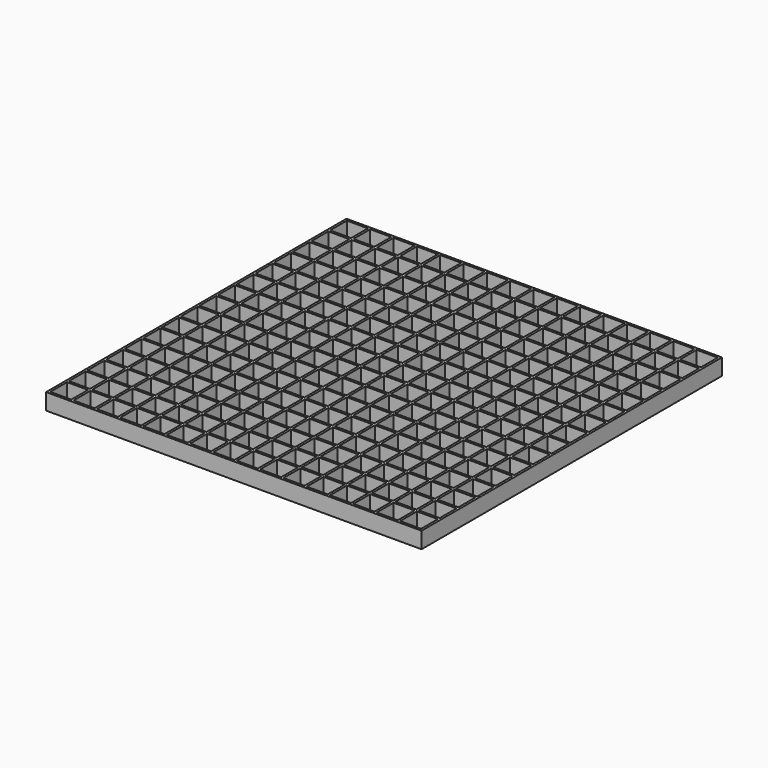
from build123d import *

# Parameters (mm, degrees)
SKETCH_W                      = 161
SKETCH_H                      = 161
PAD_DEPTH                     = 7
SKETCH001_W                   = 9
SKETCH001_H                   = 9
POCKET_DEPTH                  = 7
SKETCH001_LINEARPATTERN_2_W   = 9
SKETCH001_LINEARPATTERN_2_H   = 9
POCKET_LINEARPATTERN_2_DEPTH  = 7
SKETCH001_LINEARPATTERN_3_W   = 9
SKETCH001_LINEARPATTERN_3_H   = 9
POCKET_LINEARPATTERN_3_DEPTH  = 7
SKETCH001_LINEARPATTERN_4_W   = 9
SKETCH001_LINEARPATTERN_4_H   = 9
POCKET_LINEARPATTERN_4_DEPTH  = 7
SKETCH001_LINEARPATTERN_5_W   = 9
SKETCH001_LINEARPATTERN_5_H   = 9
POCKET_LINEARPATTERN_5_DEPTH  = 7
SKETCH001_LINEARPATTERN_6_W   = 9
SKETCH001_LINEARPATTERN_6_H   = 9
POCKET_LINEARPATTERN_6_DEPTH  = 7
SKETCH001_LINEARPATTERN_7_W   = 9
SKETCH001_LINEARPATTERN_7_H   = 9
POCKET_LINEARPATTERN_7_DEPTH  = 7
SKETCH001_LINEARPATTERN_8_W   = 9
SKETCH001_LINEARPATTERN_8_H   = 9
POCKET_LINEARPATTERN_8_DEPTH  = 7
SKETCH001_LINEARPATTERN_9_W   = 9
SKETCH001_LINEARPATTERN_9_H   = 9
POCKET_LINEARPATTERN_9_DEPTH  = 7
SKETCH001_LINEARPATTERN_10_W  = 9
SKETCH001_LINEARPATTERN_10_H  = 9
POCKET_LINEARPATTERN_10_DEPTH = 7
SKETCH001_LINEARPATTERN_11_W  = 9
SKETCH001_LINEARPATTERN_11_H  = 9
POCKET_LINEARPATTERN_11_DEPTH = 7
SKETCH001_LINEARPATTERN_12_W  = 9
SKETCH001_LINEARPATTERN_12_H  = 9
POCKET_LINEARPATTERN_12_DEPTH = 7
SKETCH001_LINEARPATTERN_13_W  = 9
SKETCH001_LINEARPATTERN_13_H  = 9
POCKET_LINEARPATTERN_13_DEPTH = 7
SKETCH001_LINEARPATTERN_14_W  = 9
SKETCH001_LINEARPATTERN_14_H  = 9
POCKET_LINEARPATTERN_14_DEPTH = 7
SKETCH001_LINEARPATTERN_15_W  = 9
SKETCH001_LINEARPATTERN_15_H  = 9
POCKET_LINEARPATTERN_15_DEPTH = 7
SKETCH001_LINEARPATTERN_16_W  = 9
SKETCH001_LINEARPATTERN_16_H  = 9
POCKET_LINEARPATTERN_16_DEPTH = 7
LINEARPATTERN001_COUNT        = 16
LINEARPATTERN001_PITCH        = 10


with BuildPart() as part:
    # Sketch → Pad (new body)
    with BuildSketch(Plane.XY):
        with Locations((80.5, 80.5)):
            Rectangle(SKETCH_W, SKETCH_H)
    extrude(amount=PAD_DEPTH)

    # Sketch001 (on Face6 of Pad) → Pocket (cut)
    with BuildSketch(Plane.XY.offset(7)):
        with Locations((5.5, 5.5)):
            Rectangle(SKETCH001_W, SKETCH001_H)
    pocket = extrude(amount=-POCKET_DEPTH, mode=Mode.SUBTRACT)

    # Sketch001 LinearPattern 2 → Pocket LinearPattern 2 (cut)
    with BuildSketch(Plane(origin=(10, 0, 7), x_dir=(1, 0, 0), z_dir=(0, 0, 1))):
        with Locations((5.5, 5.5)):
            Rectangle(SKETCH001_LINEARPATTERN_2_W, SKETCH001_LINEARPATTERN_2_H)
    pocket_linearpattern_2 = extrude(amount=-POCKET_LINEARPATTERN_2_DEPTH, mode=Mode.SUBTRACT)

    # Sketch001 LinearPattern 3 → Pocket LinearPattern 3 (cut)
    with BuildSketch(Plane(origin=(20, 0, 7), x_dir=(1, 0, 0), z_dir=(0, 0, 1))):
        with Locations((5.5, 5.5)):
            Rectangle(SKETCH001_LINEARPATTERN_3_W, SKETCH001_LINEARPATTERN_3_H)
    pocket_linearpattern_3 = extrude(amount=-POCKET_LINEARPATTERN_3_DEPTH, mode=Mode.SUBTRACT)

    # Sketch001 LinearPattern 4 → Pocket LinearPattern 4 (cut)
    with BuildSketch(Plane(origin=(30, 0, 7), x_dir=(1, 0, 0), z_dir=(0, 0, 1))):
        with Locations((5.5, 5.5)):
            Rectangle(SKETCH001_LINEARPATTERN_4_W, SKETCH001_LINEARPATTERN_4_H)
    pocket_linearpattern_4 = extrude(amount=-POCKET_LINEARPATTERN_4_DEPTH, mode=Mode.SUBTRACT)

    # Sketch001 LinearPattern 5 → Pocket LinearPattern 5 (cut)
    with BuildSketch(Plane(origin=(40, 0, 7), x_dir=(1, 0, 0), z_dir=(0, 0, 1))):
        with Locations((5.5, 5.5)):
            Rectangle(SKETCH001_LINEARPATTERN_5_W, SKETCH001_LINEARPATTERN_5_H)
    pocket_linearpattern_5 = extrude(amount=-POCKET_LINEARPATTERN_5_DEPTH, mode=Mode.SUBTRACT)

    # Sketch001 LinearPattern 6 → Pocket LinearPattern 6 (cut)
    with BuildSketch(Plane(origin=(50, 0, 7), x_dir=(1, 0, 0), z_dir=(0, 0, 1))):
        with Locations((5.5, 5.5)):
            Rectangle(SKETCH001_LINEARPATTERN_6_W, SKETCH001_LINEARPATTERN_6_H)
    pocket_linearpattern_6 = extrude(amount=-POCKET_LINEARPATTERN_6_DEPTH, mode=Mode.SUBTRACT)

    # Sketch001 LinearPattern 7 → Pocket LinearPattern 7 (cut)
    with BuildSketch(Plane(origin=(60, 0, 7), x_dir=(1, 0, 0), z_dir=(0, 0, 1))):
        with Locations((5.5, 5.5)):
            Rectangle(SKETCH001_LINEARPATTERN_7_W, SKETCH001_LINEARPATTERN_7_H)
    pocket_linearpattern_7 = extrude(amount=-POCKET_LINEARPATTERN_7_DEPTH, mode=Mode.SUBTRACT)

    # Sketch001 LinearPattern 8 → Pocket LinearPattern 8 (cut)
    with BuildSketch(Plane(origin=(70, 0, 7), x_dir=(1, 0, 0), z_dir=(0, 0, 1))):
        with Locations((5.5, 5.5)):
            Rectangle(SKETCH001_LINEARPATTERN_8_W, SKETCH001_LINEARPATTERN_8_H)
    pocket_linearpattern_8 = extrude(amount=-POCKET_LINEARPATTERN_8_DEPTH, mode=Mode.SUBTRACT)

    # Sketch001 LinearPattern 9 → Pocket LinearPattern 9 (cut)
    with BuildSketch(Plane(origin=(80, 0, 7), x_dir=(1, 0, 0), z_dir=(0, 0, 1))):
        with Locations((5.5, 5.5)):
            Rectangle(SKETCH001_LINEARPATTERN_9_W, SKETCH001_LINEARPATTERN_9_H)
    pocket_linearpattern_9 = extrude(amount=-POCKET_LINEARPATTERN_9_DEPTH, mode=Mode.SUBTRACT)

    # Sketch001 LinearPattern 10 → Pocket LinearPattern 10 (cut)
    with BuildSketch(Plane(origin=(90, 0, 7), x_dir=(1, 0, 0), z_dir=(0, 0, 1))):
        with Locations((5.5, 5.5)):
            Rectangle(SKETCH001_LINEARPATTERN_10_W, SKETCH001_LINEARPATTERN_10_H)
    pocket_linearpattern_10 = extrude(amount=-POCKET_LINEARPATTERN_10_DEPTH, mode=Mode.SUBTRACT)

    # Sketch001 LinearPattern 11 → Pocket LinearPattern 11 (cut)
    with BuildSketch(Plane(origin=(100, 0, 7), x_dir=(1, 0, 0), z_dir=(0, 0, 1))):
        with Locations((5.5, 5.5)):
            Rectangle(SKETCH001_LINEARPATTERN_11_W, SKETCH001_LINEARPATTERN_11_H)
    pocket_linearpattern_11 = extrude(amount=-POCKET_LINEARPATTERN_11_DEPTH, mode=Mode.SUBTRACT)

    # Sketch001 LinearPattern 12 → Pocket LinearPattern 12 (cut)
    with BuildSketch(Plane(origin=(110, 0, 7), x_dir=(1, 0, 0), z_dir=(0, 0, 1))):
        with Locations((5.5, 5.5)):
            Rectangle(SKETCH001_LINEARPATTERN_12_W, SKETCH001_LINEARPATTERN_12_H)
    pocket_linearpattern_12 = extrude(amount=-POCKET_LINEARPATTERN_12_DEPTH, mode=Mode.SUBTRACT)

    # Sketch001 LinearPattern 13 → Pocket LinearPattern 13 (cut)
    with BuildSketch(Plane(origin=(120, 0, 7), x_dir=(1, 0, 0), z_dir=(0, 0, 1))):
        with Locations((5.5, 5.5)):
            Rectangle(SKETCH001_LINEARPATTERN_13_W, SKETCH001_LINEARPATTERN_13_H)
    pocket_linearpattern_13 = extrude(amount=-POCKET_LINEARPATTERN_13_DEPTH, mode=Mode.SUBTRACT)

    # Sketch001 LinearPattern 14 → Pocket LinearPattern 14 (cut)
    with BuildSketch(Plane(origin=(130, 0, 7), x_dir=(1, 0, 0), z_dir=(0, 0, 1))):
        with Locations((5.5, 5.5)):
            Rectangle(SKETCH001_LINEARPATTERN_14_W, SKETCH001_LINEARPATTERN_14_H)
    pocket_linearpattern_14 = extrude(amount=-POCKET_LINEARPATTERN_14_DEPTH, mode=Mode.SUBTRACT)

    # Sketch001 LinearPattern 15 → Pocket LinearPattern 15 (cut)
    with BuildSketch(Plane(origin=(140, 0, 7), x_dir=(1, 0, 0), z_dir=(0, 0, 1))):
        with Locations((5.5, 5.5)):
            Rectangle(SKETCH001_LINEARPATTERN_15_W, SKETCH001_LINEARPATTERN_15_H)
    pocket_linearpattern_15 = extrude(amount=-POCKET_LINEARPATTERN_15_DEPTH, mode=Mode.SUBTRACT)

    # Sketch001 LinearPattern 16 → Pocket LinearPattern 16 (cut)
    with BuildSketch(Plane(origin=(150, 0, 7), x_dir=(1, 0, 0), z_dir=(0, 0, 1))):
        with Locations((5.5, 5.5)):
            Rectangle(SKETCH001_LINEARPATTERN_16_W, SKETCH001_LINEARPATTERN_16_H)
    pocket_linearpattern_16 = extrude(amount=-POCKET_LINEARPATTERN_16_DEPTH, mode=Mode.SUBTRACT)

    # LinearPattern001: Pocket, Pocket LinearPattern 2, Pocket LinearPattern 3, Pocket LinearPattern 4, Pocket LinearPattern 5, Pocket LinearPattern 6, Pocket LinearPattern 7, Pocket LinearPattern 8, Pocket LinearPattern 9, Pocket LinearPattern 10, Pocket LinearPattern 11, Pocket LinearPattern 12, Pocket LinearPattern 13, Pocket LinearPattern 14, Pocket LinearPattern 15, Pocket LinearPattern 16 ×16
    with Locations(*[(0, i * LINEARPATTERN001_PITCH, 0) for i in range(1, LINEARPATTERN001_COUNT)]):
        add(pocket, mode=Mode.SUBTRACT)
        add(pocket_linearpattern_2, mode=Mode.SUBTRACT)
        add(pocket_linearpattern_3, mode=Mode.SUBTRACT)
        add(pocket_linearpattern_4, mode=Mode.SUBTRACT)
        add(pocket_linearpattern_5, mode=Mode.SUBTRACT)
        add(pocket_linearpattern_6, mode=Mode.SUBTRACT)
        add(pocket_linearpattern_7, mode=Mode.SUBTRACT)
        add(pocket_linearpattern_8, mode=Mode.SUBTRACT)
        add(pocket_linearpattern_9, mode=Mode.SUBTRACT)
        add(pocket_linearpattern_10, mode=Mode.SUBTRACT)
        add(pocket_linearpattern_11, mode=Mode.SUBTRACT)
        add(pocket_linearpattern_12, mode=Mode.SUBTRACT)
        add(pocket_linearpattern_13, mode=Mode.SUBTRACT)
        add(pocket_linearpattern_14, mode=Mode.SUBTRACT)
        add(pocket_linearpattern_15, mode=Mode.SUBTRACT)
        add(pocket_linearpattern_16, mode=Mode.SUBTRACT)


solid = part.part
